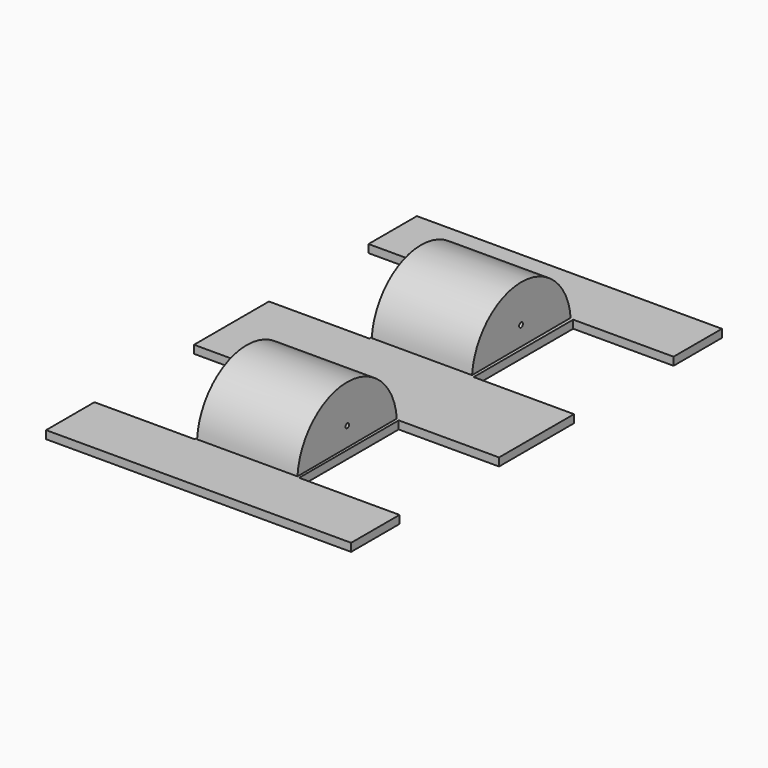
from build123d import *

# Parameters (mm, degrees)
F1_DEPTH = 1
F2_R     = 0.589923
F2_R_2   = 0.548616
F3_DEPTH = 12.5


with BuildPart() as f1:
    # F0 (on Top) → F1 (new body, symmetric)
    with BuildSketch(Plane.XY):
        Polygon((-38, -57.736438), (38, -57.736438), (38, -42.672414), (13, -42.672414), (13, -11.672414), (38, -11.672414), (38, 11.672414), (13, 11.672414), (13, 42.672414), (38, 42.672414), (38, 57.736438), (-38, 57.736438), (-38, 42.672414), (-13, 42.672414), (-13, 11.672414), (-38, 11.672414), (-38, -11.672414), (-13, -11.672414), (-13, -42.672414), (-38, -42.672414), align=None)
    extrude(amount=F1_DEPTH, both=True)


with BuildPart() as f3:
    # F2 (on Right) → F3 (new body, symmetric)
    with BuildSketch(Plane.YZ):
        with BuildLine():
            Line((11.799874, 1.206249), (42.500004, 1.302187))
            ThreePointArc((42.500004, 1.302187), (27.105744, 15.396529), (11.799874, 1.206249))
        make_face()
        with Locations((27.05819, 6.012931)):
            Circle(F2_R, mode=Mode.SUBTRACT)
        with BuildLine():
            Line((-42.580668, 1.108744), (-11.643166, 1.205726))
            ThreePointArc((-11.643166, 1.205726), (-27.156917, 15.512462), (-42.580668, 1.108744))
        make_face()
        with Locations((-27.058192, 5.915949)):
            Circle(F2_R_2, mode=Mode.SUBTRACT)
    extrude(amount=F3_DEPTH, both=True)


solid = Compound([f1.part, f3.part])
